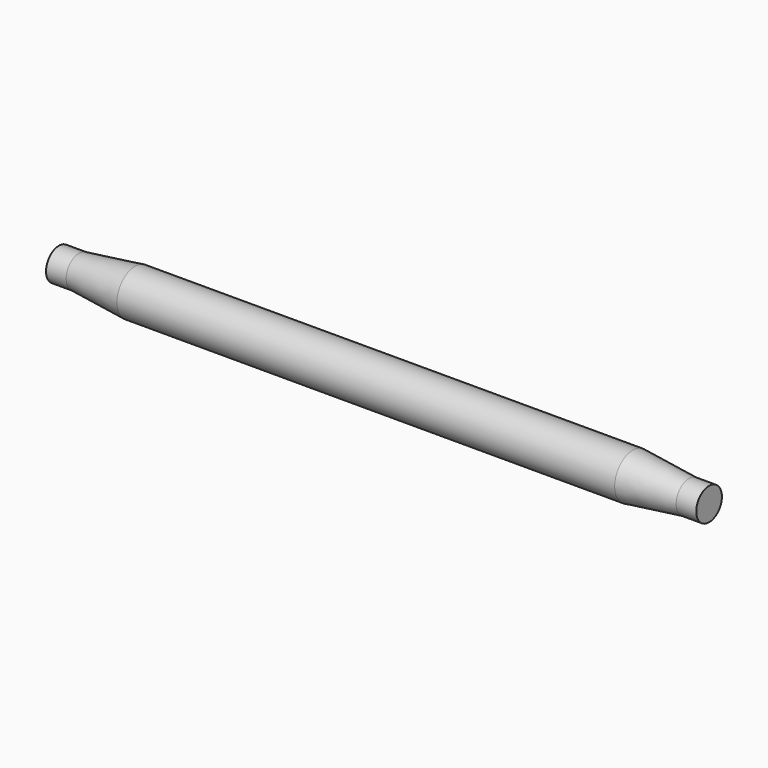
from build123d import *

# Parameters (mm, degrees)
F0_R       = 53.975
F1_DEPTH   = 590.55
F3_R       = 38.1
F4_DEPTH   = 47.752
F1_FACE_R  = 53.975
F4_FACE_R  = 38.1
F1_FACE1_R = 53.975
F5_FACE_R  = 38.1


with BuildPart() as f1:
    # F0 (on Right) → F1 (new body, symmetric)
    with BuildSketch(Plane.YZ):
        Circle(F0_R)
    extrude(amount=F1_DEPTH, both=True)



with BuildPart() as f4:
    # F3 (on offset) → F4 (new body)
    with BuildSketch(Plane.YZ.offset(771.398)):
        Circle(F3_R)
    extrude(amount=-F4_DEPTH)


with BuildPart() as f5_1:
    # F5: instance of F4
    add(f4.part.mirror(Plane.YZ))


with BuildPart() as f1_1:
    add(f1.part)

    add(f4.part)  # F6 merges F4
    # F1_face (on face) → F6 section 0
    with BuildSketch(Plane.YZ.offset(590.55)):
        Circle(F1_FACE_R)
    # F4_face (on face) → F6 section 1
    with BuildSketch(Plane(origin=(723.646, 0, 0), x_dir=(0, 1, 0), z_dir=(-1, 0, 0))):
        Circle(F4_FACE_R)
    loft()


    add(f5_1.part)  # F7 merges F5_1
    # F1_face1 (on face) → F7 section 0
    with BuildSketch(Plane(origin=(-590.55, 0, 0), x_dir=(0, 1, 0), z_dir=(-1, 0, 0))):
        Circle(F1_FACE1_R)
    # F5_face (on face) → F7 section 1
    with BuildSketch(Plane.YZ.offset(-723.646)):
        Circle(F5_FACE_R)
    loft()


solid = f1_1.part
